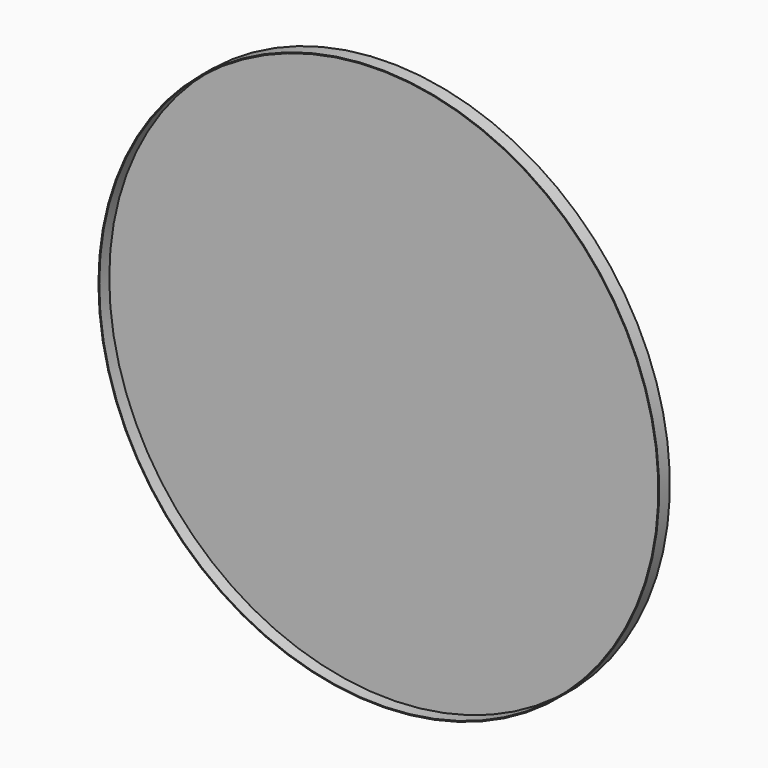
from build123d import *

# Parameters (mm, degrees)
F0_W = 0.1
F0_H = 1.5


with BuildPart() as f1:
    # F0 (on Top) → F1 (revolve)
    with BuildSketch(Plane.XY):
        with Locations((-33.55, -6.859161)):
            Rectangle(F0_W, F0_H)
        Polygon((-33.5, -6.109161), (0, -6.109161), (0, -6.009161), (-33.6, -6.009161), (-33.6, -6.109161), align=None)
    revolve(axis=Axis((0, 0.1, 0), (0, -1, 0)))


solid = f1.part
